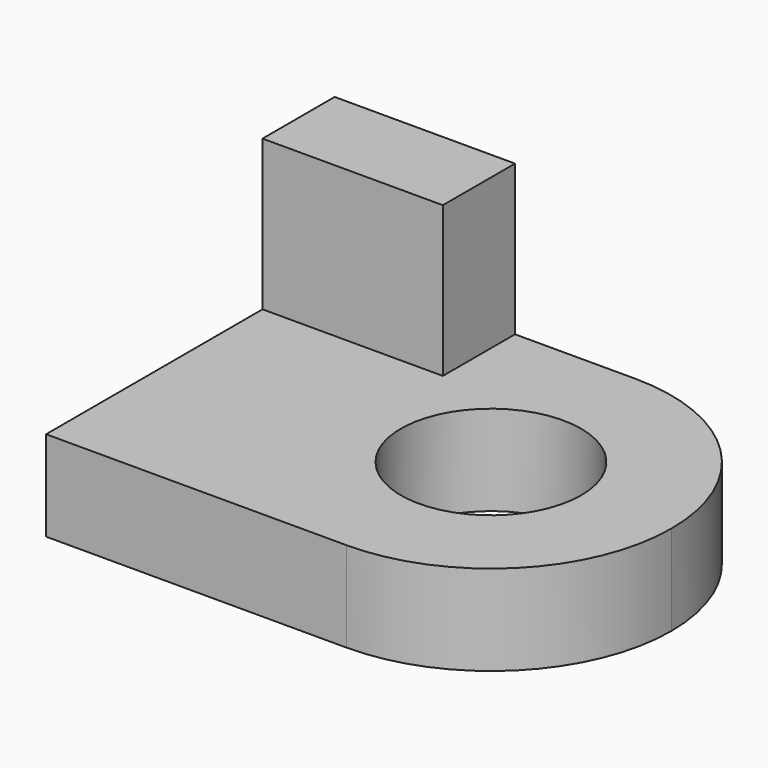
from build123d import *

# Parameters (mm, degrees)
F0_R     = 21
F1_DEPTH = 21
F2_W     = 42
F2_H     = 21
F3_DEPTH = 35


with BuildPart() as f1:
    # F0 (on Top) → F1 (new body)
    with BuildSketch(Plane.XY):
        with BuildLine():
            Line((14, 42), (-56, 42))
            Line((-56, 42), (-56, -42))
            Line((-56, -42), (14, -42))
            ThreePointArc((14, -42), (43.698485, -29.698485), (56, 0))
            ThreePointArc((56, 0), (43.698485, 29.698485), (14, 42))
        make_face()
        with Locations((14, 0)):
            Circle(F0_R, mode=Mode.SUBTRACT)
    extrude(amount=F1_DEPTH)

    # F2 (on face) → F3 (join)
    with BuildSketch(Plane.XY.offset(21)):
        with Locations((-35, 31.5)):
            Rectangle(F2_W, F2_H)
    extrude(amount=F3_DEPTH)


solid = f1.part
